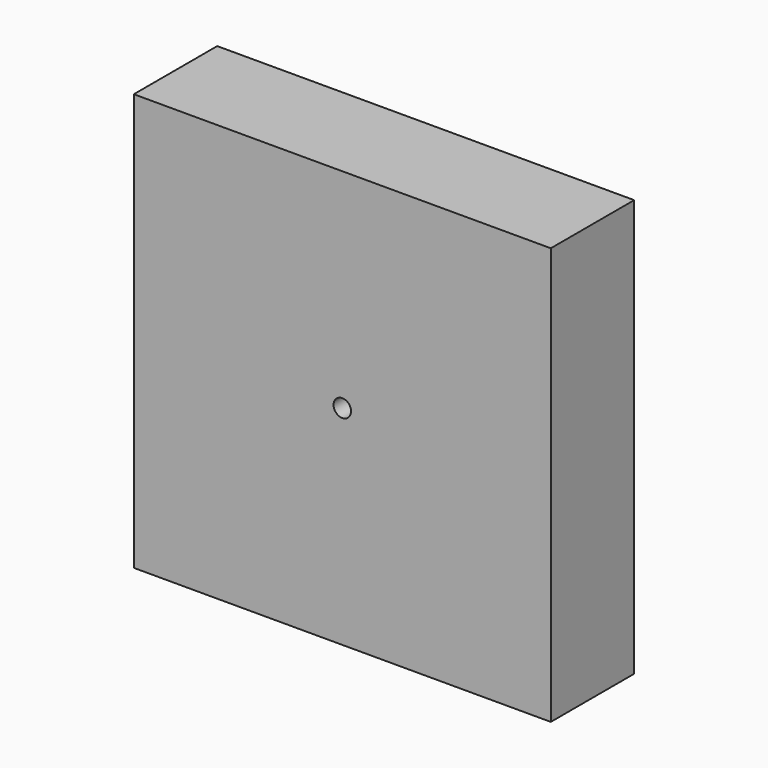
from build123d import *

# Parameters (mm, degrees)
F0_W     = 100
F0_H     = 100
F1_DEPTH = 25
F2_D     = 4.2


with BuildPart() as f1:
    # F0 (on Front) → F1 (new body)
    with BuildSketch(Plane.XZ):
        Rectangle(F0_W, F0_H)
    extrude(amount=F1_DEPTH)

    # F2 (through all)
    with Locations(Plane(origin=(0, 0, 0), x_dir=(1, 0, 0), z_dir=(0, 1, 0))):
        with Locations((0, 0)):
            Hole(F2_D / 2)


solid = f1.part
